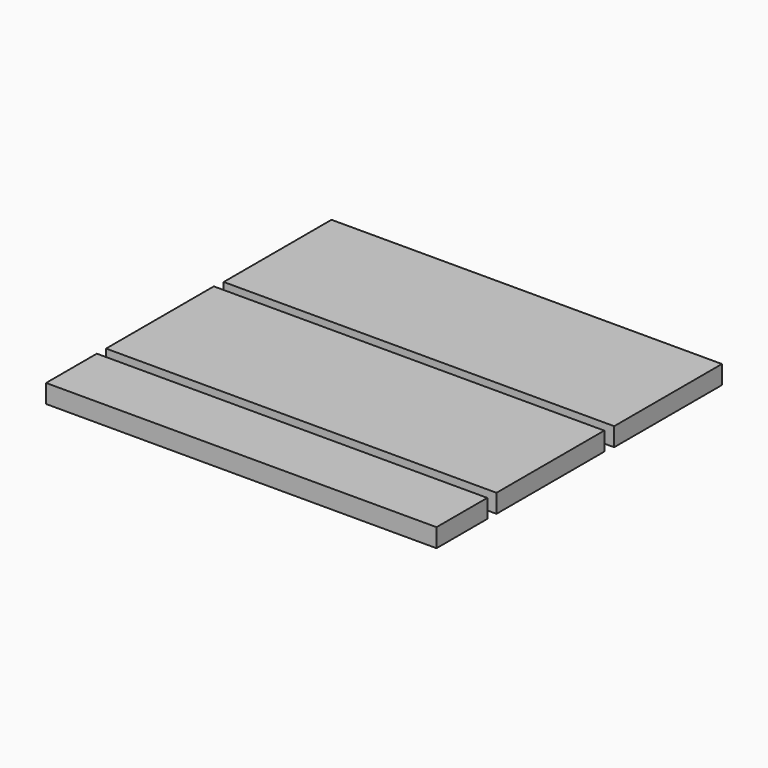
from build123d import *

# Parameters (mm, degrees)
F0_W     = 400
F0_H     = 138
F0_H_2   = 65
F1_DEPTH = 19


with BuildPart() as f1:
    # F0 (on Top) → F1 (new body)
    with BuildSketch(Plane.XY):
        with Locations((-127.881293, 105.967028)):
            Rectangle(F0_W, F0_H)
        with Locations((-129.310836, -42.9291)):
            Rectangle(F0_W, F0_H)
        with Locations((-129.559565, -155.924259)):
            Rectangle(F0_W, F0_H_2)
    extrude(amount=F1_DEPTH)


solid = f1.part
